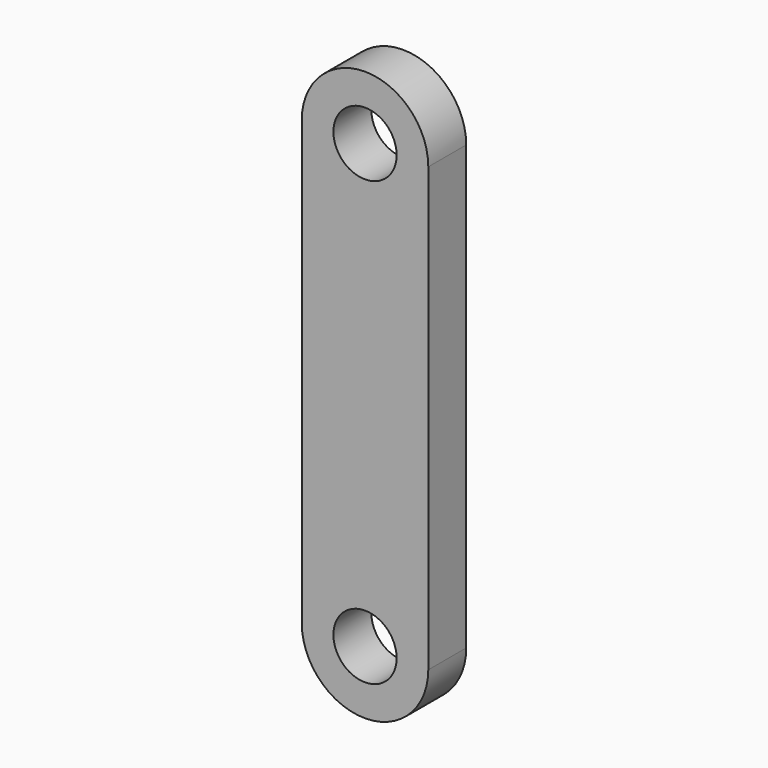
from build123d import *

# Parameters (mm, degrees)
F1_DEPTH = 15
F2_R     = 10
F3_DEPTH = 25


with BuildPart() as f1:
    # F0 (on Front) → F1 (new body)
    with BuildSketch(Plane.XZ):
        with BuildLine():
            ThreePointArc((-20, 0), (0, -20), (20, 0))
            ThreePointArc((20, 0), (0, 20), (-20, 0))
        make_face()
        with BuildLine():
            ThreePointArc((-20, 0), (0, 20), (20, 0))
            Line((20, 0), (20, 140))
            ThreePointArc((20, 140), (0, 120), (-20, 140))
            Line((-20, 140), (-20, 0))
        make_face()
        with BuildLine():
            ThreePointArc((-20, 140), (0, 120), (20, 140))
            ThreePointArc((20, 140), (0, 160), (-20, 140))
        make_face()
    extrude(amount=F1_DEPTH)

    # F2 (on face) → F3 (cut)
    with BuildSketch(Plane.XZ.offset(15)):
        with Locations((0, 140)):
            Circle(F2_R)
        Circle(F2_R)
    extrude(amount=-F3_DEPTH, mode=Mode.SUBTRACT)


solid = f1.part
